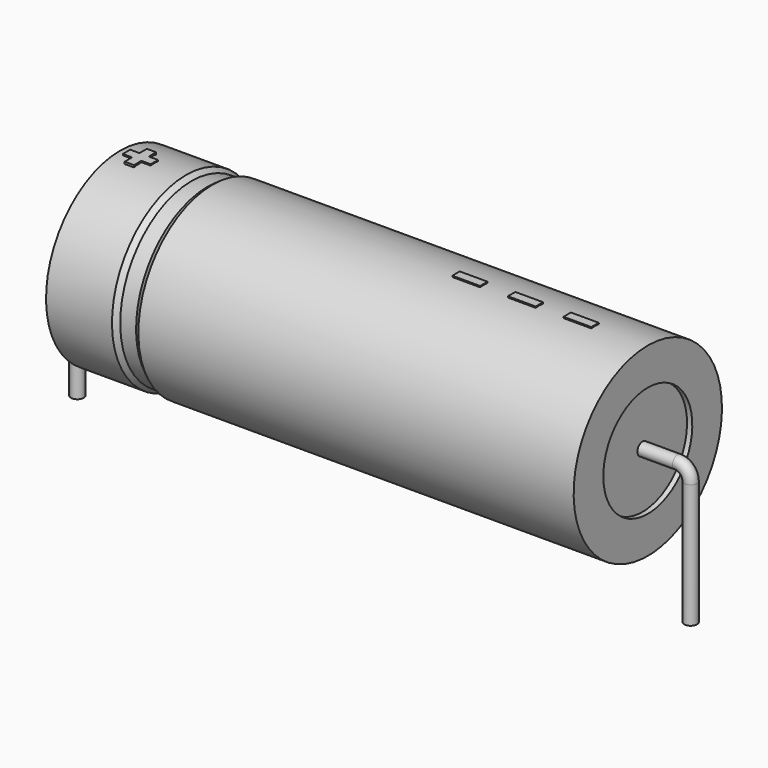
from build123d import *

# Parameters (mm, degrees)
SKETCH_R    = 0.45
SKETCH004_W = 1.95
SKETCH004_H = 0.65
PAD_DEPTH   = 6.565


with BuildPart() as sweep_body:
    # Sweep: sweep along a path in Sketch001
    with BuildLine(Plane.XZ) as sweep_path:
        Line((0, -3), (0, 5.7))
        ThreePointArc((0, 5.7), (0.263608, 6.3364), (0.900011, 6.6))
        Line((0.900011, 6.6), (42.1, 6.6))
        ThreePointArc((42.1, 6.6), (42.736396, 6.336396), (43, 5.7))
        Line((43, 5.7), (43, -3))
    # Sketch → Sweep (sweep)
    with BuildSketch(Plane.XY.offset(-2)):
        Circle(SKETCH_R)
    sweep(path=sweep_path.line)


with BuildPart() as revolution:
    # Sketch002 → Revolution (revolve)
    with BuildSketch(Plane.XZ):
        Polygon((3, 13.1), (3, 10.5), (40, 10.5), (40, 13.1), (9.475, 13.1), (9.105, 12.84), (7.995, 12.84), (7.625, 13.1), align=None)
    revolve(axis=Axis((6.97588, 0, 6.6), (1, 0, 0)))


with BuildPart() as revolution001:
    # Sketch003 → Revolution001 (revolve)
    with BuildSketch(Plane.XZ):
        Polygon((3.37, 12.84), (5.22, 12.84), (5.22, 7.25), (37.78, 7.25), (37.78, 12.84), (39.63, 12.84), (39.63, 6.6), (3.37, 6.6), align=None)
    revolve(axis=Axis((6.97588, 0, 6.6), (1, 0, 0)))


with BuildPart() as pad:
    # Sketch004 → Pad (new body)
    with BuildSketch(Plane.XY.offset(6.6)):
        with Locations((35.325, 0)):
            Rectangle(SKETCH004_W, SKETCH004_H)
        with Locations((31.425, 0)):
            Rectangle(SKETCH004_W, SKETCH004_H)
        with Locations((27.525, 0)):
            Rectangle(SKETCH004_W, SKETCH004_H)
        Polygon((4.094, 0.325), (3.444, 0.325), (3.444, -0.325), (4.094, -0.325), (4.094, -0.975), (4.744, -0.975), (4.744, -0.325), (5.394, -0.325), (5.394, 0.325), (4.744, 0.325), (4.744, 0.975), (4.094, 0.975), align=None)
    extrude(amount=PAD_DEPTH)


solid = Compound([sweep_body.part, revolution.part, revolution001.part, pad.part])
